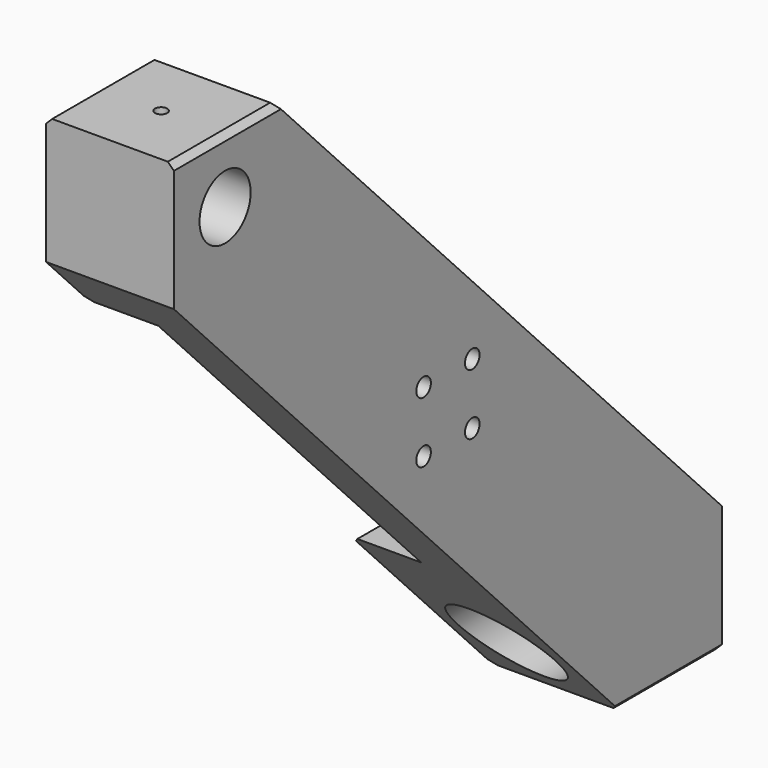
from build123d import *

# Parameters (mm, degrees)
F0_R      = 3
F0_R_2    = 10.5
F1_DEPTH  = 42
F2_R      = 3
F3_DEPTH  = 21
F4_R      = 16
F5_DEPTH  = 85
F6_SIZE   = 2
F7_R      = 2
F8_DEPTH  = 25
F9_R      = 2
F10_DEPTH = 25


with BuildPart() as f1:
    # F0 (on Right) → F1 (new body)
    with BuildSketch(Plane.YZ):
        Polygon((70.5, -116.2), (112.5, -116.2), (112.5, -74.2), (-70.5, 116.2), (-112.5, 116.2), (-112.5, 74.2), align=None)
        with Locations((-10, -10)):
            Circle(F0_R, mode=Mode.SUBTRACT)
        with Locations((10, -10)):
            Circle(F0_R, mode=Mode.SUBTRACT)
        with Locations((-10, 10)):
            Circle(F0_R, mode=Mode.SUBTRACT)
        with Locations((-91.5, 95.2)):
            Circle(F0_R_2, mode=Mode.SUBTRACT)
        with Locations((10, 10)):
            Circle(F0_R, mode=Mode.SUBTRACT)
    extrude(amount=F1_DEPTH)

    # F2 (on face) → F3 (cut)
    with BuildSketch(Plane.YZ):
        Polygon((12.831933, -56.2), (95.19958, -56.2), (-12.831933, 56.2), (-95.19958, 56.2), align=None)
        with Locations((-10, -10)):
            Circle(F2_R, mode=Mode.SUBTRACT)
        with Locations((10, -10)):
            Circle(F2_R, mode=Mode.SUBTRACT)
        with Locations((-10, 10)):
            Circle(F2_R, mode=Mode.SUBTRACT)
        with Locations((10, 10)):
            Circle(F2_R, mode=Mode.SUBTRACT)
    extrude(amount=F3_DEPTH, mode=Mode.SUBTRACT)

    # F4 (on face) → F5 (cut)
    with BuildSketch(Plane(origin=(0, 112.5, 0), x_dir=(-1, 0, 0), z_dir=(0, 1, 0))):
        with Locations((-21, -95.2)):
            Circle(F4_R)
    extrude(amount=-F5_DEPTH, mode=Mode.SUBTRACT)

    # F6
    f6_edges = [f1.edges().sort_by_distance(p)[0] for p in [
        (21, 41.183824, 0),
        (21, -41.183824, 0),
        (0, -54.015756, 56.2),
        (0, -91.5, 116.2),
        (0, 91.5, -116.2),
        (0, 54.015756, -56.2),
        (42, 91.5, -116.2),
        (42, -91.5, 116.2),
    ]]
    chamfer(f6_edges, length=F6_SIZE)

    # F7 (on face) → F8 (cut)
    with BuildSketch(Plane.XY.offset(116.2)):
        with Locations((21, -91.5)):
            Circle(F7_R)
    extrude(amount=-F8_DEPTH, mode=Mode.SUBTRACT)

    # F9 (on face) → F10 (cut)
    with BuildSketch(Plane(origin=(0, 0, -116.2), x_dir=(1, 0, 0), z_dir=(0, 0, -1))):
        with Locations((21, -91.5)):
            Circle(F9_R)
    extrude(amount=-F10_DEPTH, mode=Mode.SUBTRACT)


solid = f1.part
